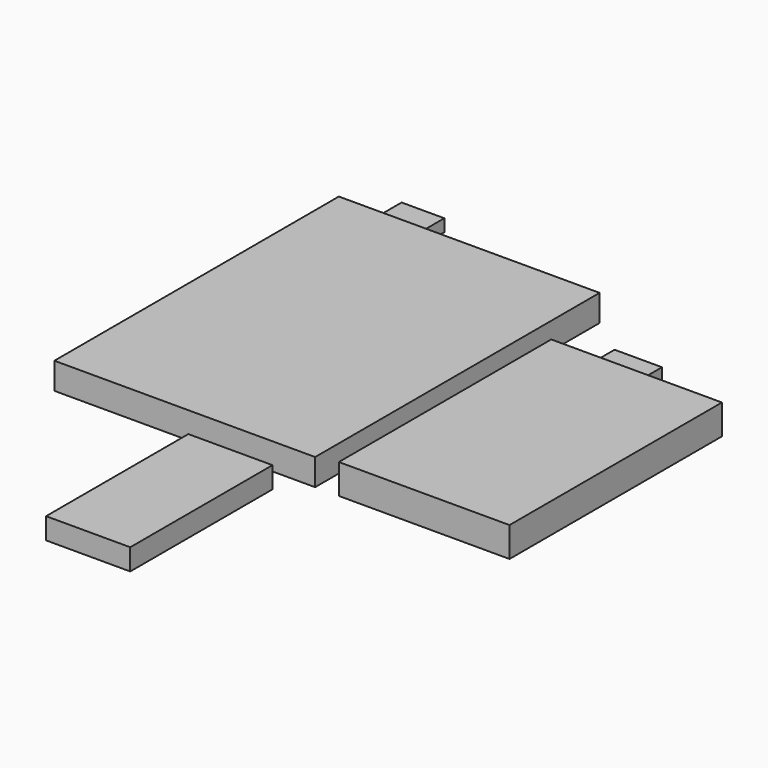
from build123d import *

# Parameters (mm, degrees)
F1_DEPTH = 5.6
F0_W     = 9
F0_H     = 9.3
F2_DEPTH = 2.6
F4_DEPTH = 6.3
F3_W     = 10
F3_H     = 9.2
F5_DEPTH = 2.6
F6_W     = 17.75
F6_H     = 37.5
F7_DEPTH = 4.5


with BuildPart() as f1:
    # F0 (on Top) → F1 (new body)
    with BuildSketch(Plane.XY):
        Polygon((-55, 0), (0, 0), (0, 75), (-40.2, 75), (-49.2, 75), (-55, 75), align=None)
    extrude(amount=F1_DEPTH)

    # F0 (on Top) → F2 (join)
    with BuildSketch(Plane.XY):
        with Locations((-44.7, 79.65)):
            Rectangle(F0_W, F0_H)
    extrude(amount=F2_DEPTH)


with BuildPart() as f4:
    # F3 (on Top) → F4 (new body)
    with BuildSketch(Plane.XY):
        Polygon((5, 56), (5, 0), (41, 0), (41, 56), (21, 56), (11, 56), align=None)
    extrude(amount=F4_DEPTH)

    # F3 (on Top) → F5 (join)
    with BuildSketch(Plane.XY):
        with Locations((16, 60.6)):
            Rectangle(F3_W, F3_H)
    extrude(amount=F5_DEPTH)


with BuildPart() as f7:
    # F6 (on Top) → F7 (new body)
    with BuildSketch(Plane.XY):
        with Locations((-13.875, -23.75)):
            Rectangle(F6_W, F6_H)
    extrude(amount=F7_DEPTH)


solid = Compound([f1.part, f4.part, f7.part])
